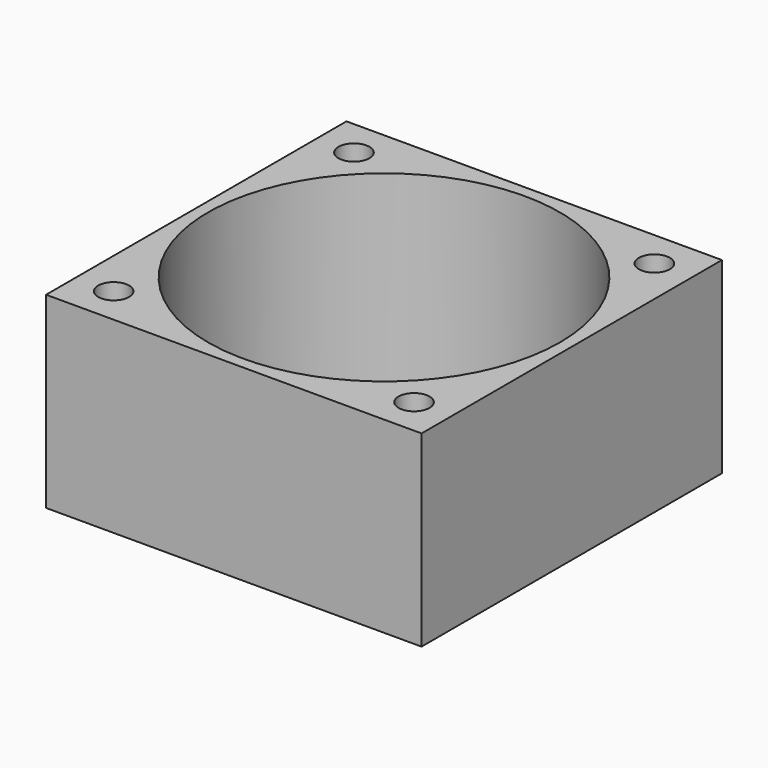
from build123d import *

# Parameters (mm, degrees)
F0_W     = 40
F0_H     = 40
F0_R     = 1.65
F0_R_2   = 18.75
F1_DEPTH = 20


with BuildPart() as f1:
    # F0 (on Top) → F1 (new body)
    with BuildSketch(Plane.XY):
        with Locations((20, 20)):
            Rectangle(F0_W, F0_H)
        with Locations((4, 4)):
            Circle(F0_R, mode=Mode.SUBTRACT)
        with Locations((36, 4)):
            Circle(F0_R, mode=Mode.SUBTRACT)
        with Locations((4, 36)):
            Circle(F0_R, mode=Mode.SUBTRACT)
        with Locations((20, 20)):
            Circle(F0_R_2, mode=Mode.SUBTRACT)
        with Locations((36, 36)):
            Circle(F0_R, mode=Mode.SUBTRACT)
    extrude(amount=F1_DEPTH)


solid = f1.part
